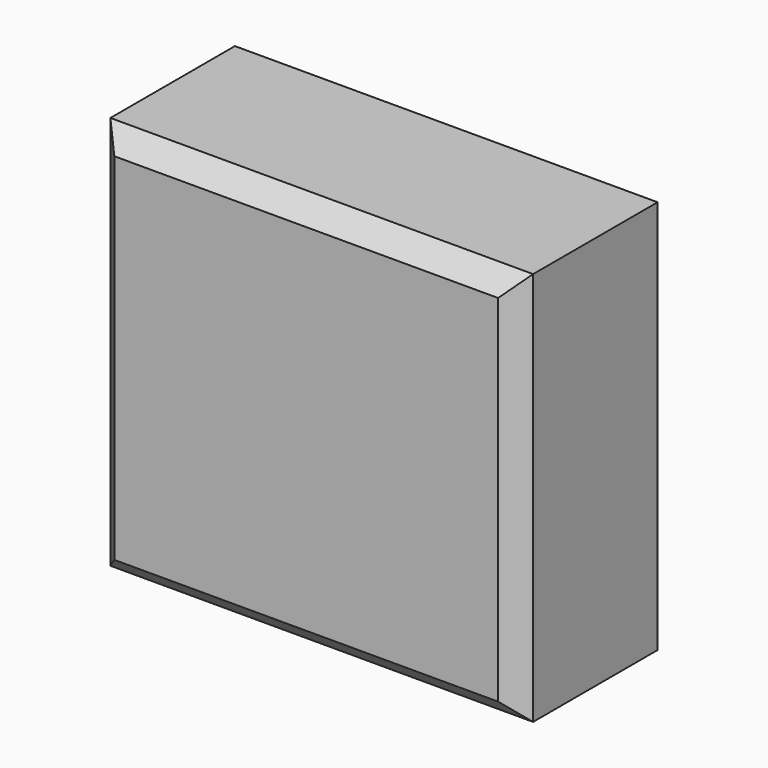
from build123d import *

# Parameters (mm, degrees)
F0_W     = 110.394865
F0_H     = 102.963418
F1_DEPTH = 50.8
F2_SIZE  = 5.08
F3_SIZE2 = 5.08
F3_SIZE  = 5.08


with BuildPart() as f1:
    # F0 (on Front) → F1 (new body)
    with BuildSketch(Plane.XZ):
        with Locations((7.995776, -2.030991)):
            Rectangle(F0_W, F0_H)
    extrude(amount=F1_DEPTH)

    # F2
    f2_edges = [f1.edges().sort_by_distance(p)[0] for p in [
        (7.995777, -50.8, 49.450718),
        (-47.201656, -50.8, -2.030991),
        (7.995777, -50.8, -53.5127),
        (63.193209, -50.8, -2.030991),
    ]]
    chamfer(f2_edges, length=F2_SIZE)

    # F3
    f3_edges = [f1.edges().sort_by_distance(p)[0] for p in [
        (7.995777, 0, 49.450718),
        (-47.201656, 0, -2.030991),
        (7.995777, 0, -53.5127),
        (63.193209, 0, -2.030991),
    ]]
    chamfer(f3_edges, length=F3_SIZE, length2=F3_SIZE2)


solid = f1.part
